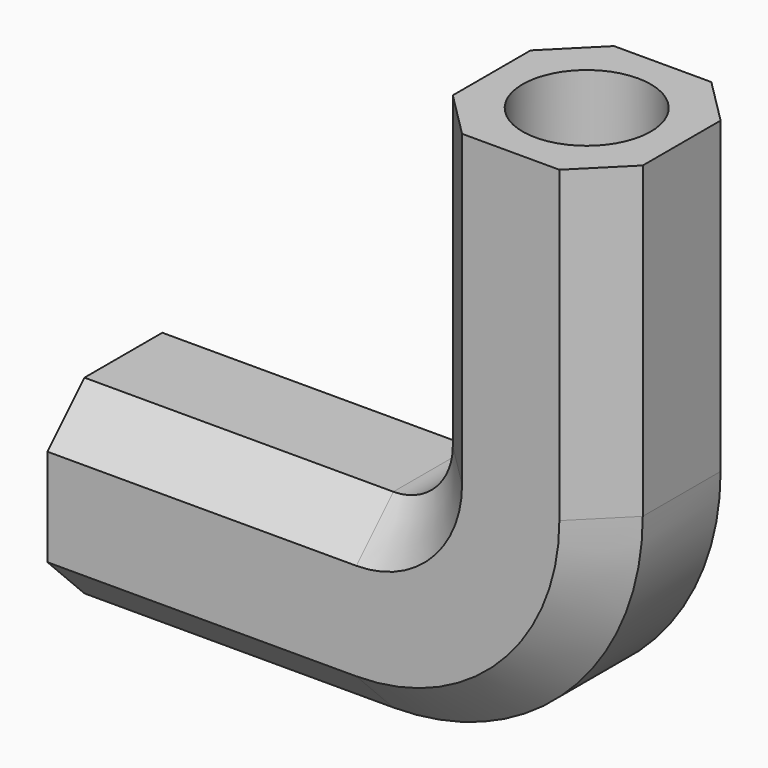
from build123d import *

# Parameters (mm, degrees)
F1_W    = 12.3
F1_H    = 12.3
F1_R    = 4.15
F3_SIZE = 3


with BuildPart() as f2:
    # F2: sweep along a path in F0
    with BuildLine(Plane.XZ) as f2_path:
        Line((0, 0), (20, 0))
        ThreePointArc((20, 0), (27.0710678119, 2.9289321881), (30, 10))
        Line((30, 10), (30, 30))
    # F1 (on Right) → F2 (sweep)
    with BuildSketch(Plane.YZ):
        Rectangle(F1_W, F1_H)
        Circle(F1_R, mode=Mode.SUBTRACT)
    sweep(path=f2_path.line)

    # F3
    f3_edges = [f2.edges().sort_by_distance(p)[0] for p in [
        (23.85, -6.15, 20),
        (36.15, -6.15, 20),
        (36.15, 6.15, 20),
        (23.85, 6.15, 20),
    ]]
    chamfer(f3_edges, length=F3_SIZE)


solid = f2.part
